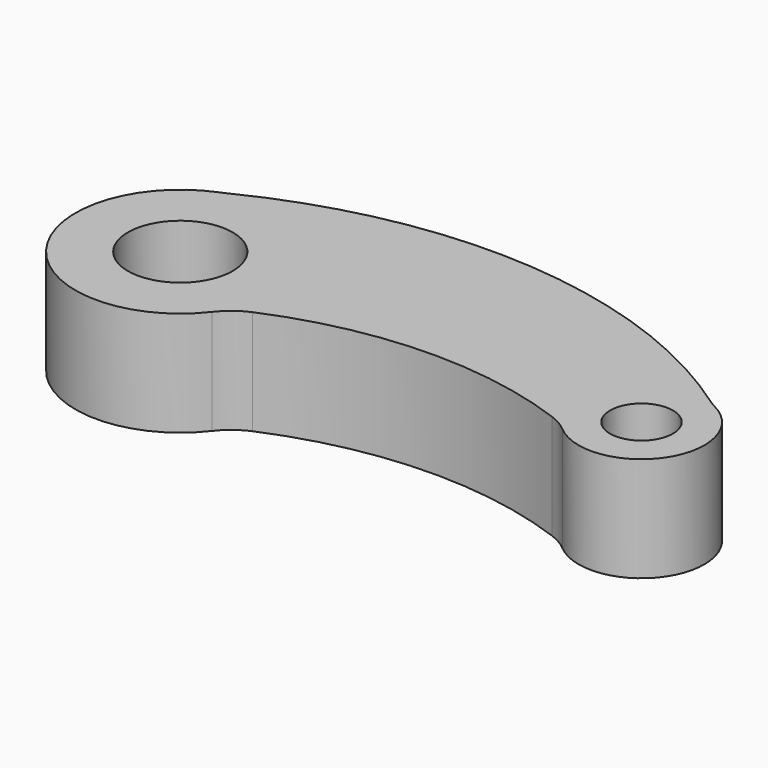
from build123d import *

# Parameters (mm, degrees)
F0_R     = 12.5
F1_DEPTH = 25


with BuildPart() as f1:
    # F0 (on Top) → F1 (new body)
    with BuildSketch(Plane.XY):
        Circle(F0_R)
        with BuildLine():
            ThreePointArc((117.5, 0), (110, 7.5), (102.5, 0))
            ThreePointArc((102.5, 0), (110, -7.5), (117.5, 0))
        make_face()
        with BuildLine():
            ThreePointArc((-7.627142, 23.960834), (-8.490667, 23.55277), (-9.369148, 23.177987))
            ThreePointArc((-9.369148, 23.177987), (-19.916156, -15.111146), (19.798746, -15.264653))
            ThreePointArc((19.798746, -15.264653), (22.493335, -12.564186), (25.782002, -10.630792))
            ThreePointArc((25.782002, -10.630792), (60.546561, -3.019212), (95.672722, -8.734419))
            ThreePointArc((95.672722, -8.734419), (98.089359, -9.868623), (100.266669, -11.41325))
            ThreePointArc((100.266669, -11.41325), (122.489592, -8.307231), (116.763269, 13.388734))
            ThreePointArc((116.763269, 13.388734), (115.800812, 13.920051), (114.879855, 14.520434))
            ThreePointArc((114.879855, 14.520434), (54.926268, 36.109448), (-7.627142, 23.960834))
        make_face()
        Circle(F0_R, mode=Mode.SUBTRACT)
        with BuildLine():
            ThreePointArc((117.5, 0), (110, -7.5), (102.5, 0))
            ThreePointArc((102.5, 0), (110, 7.5), (117.5, 0))
        make_face(mode=Mode.SUBTRACT)
    extrude(amount=F1_DEPTH)


solid = f1.part
